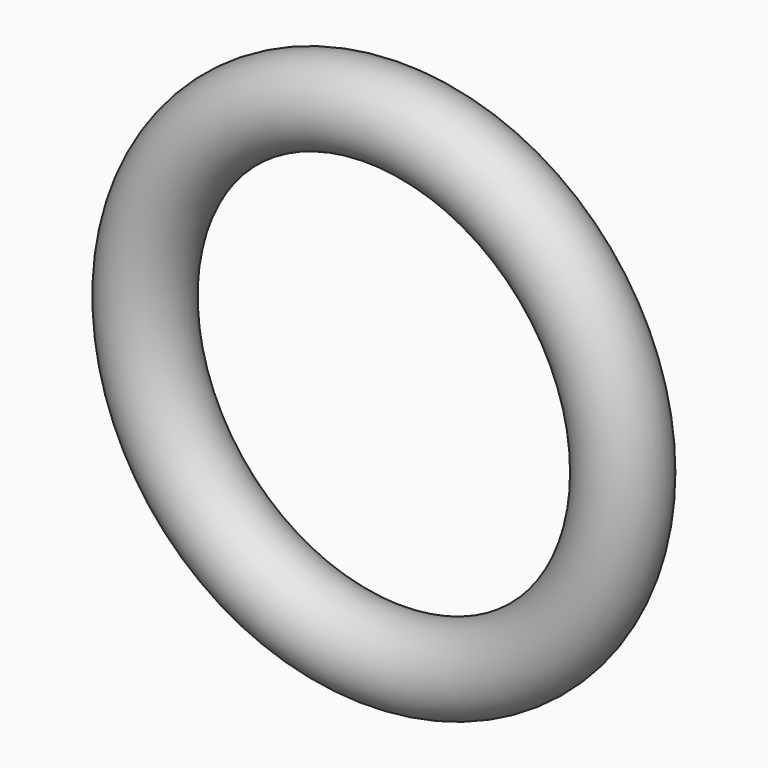
from build123d import *


with BuildPart() as f2:
    # F2: sweep along a path in F0
    with BuildLine(Plane.XZ) as f2_path:
        CenterArc((0, 0), 42.389449, 0, 360)
    # F1 (on Top) → F2 (sweep)
    with BuildSketch(Plane.XY):
        with BuildLine():
            ThreePointArc((35.088968, 0), (42.389449, -7.300481), (49.68993, 0))
            ThreePointArc((49.68993, 0), (42.389449, 7.300481), (35.088968, 0))
        make_face()
    sweep(path=f2_path.line)


solid = f2.part
